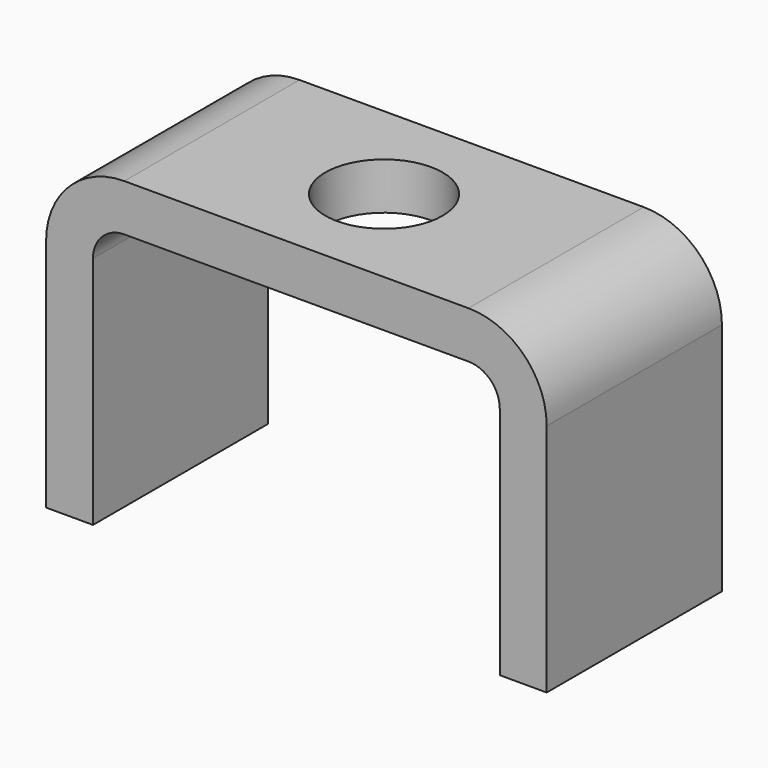
from build123d import *

# Parameters (mm, degrees)
F1_DEPTH = 22.225
F2_R     = 6.35
F3_R     = 15.875
F4_R     = 11.90625
F5_DEPTH = 25.4


with BuildPart() as f1:
    # F0 (on Front) → F1 (new body, symmetric)
    with BuildSketch(Plane.XZ):
        Polygon((-41.275, 41.275), (41.275, 41.275), (41.275, -12.7), (50.8, -12.7), (50.8, 50.8), (41.275, 50.8), (-41.275, 50.8), (-50.8, 50.8), (-50.8, -12.7), (-41.275, -12.7), align=None)
    extrude(amount=F1_DEPTH, both=True)

    # F2
    f2_edges = [f1.edges().sort_by_distance(p)[0] for p in [
        (-41.275, 0, 41.275),
        (41.275, 0, 41.275),
    ]]
    fillet(f2_edges, radius=F2_R)

    # F3
    f3_edges = [f1.edges().sort_by_distance(p)[0] for p in [
        (50.8, 0, 50.8),
        (-50.8, 0, 50.8),
    ]]
    fillet(f3_edges, radius=F3_R)

    # F4 (on face) → F5 (cut)
    with BuildSketch(Plane.XY.offset(50.8)):
        Circle(F4_R)
    extrude(amount=-F5_DEPTH, mode=Mode.SUBTRACT)


solid = f1.part
